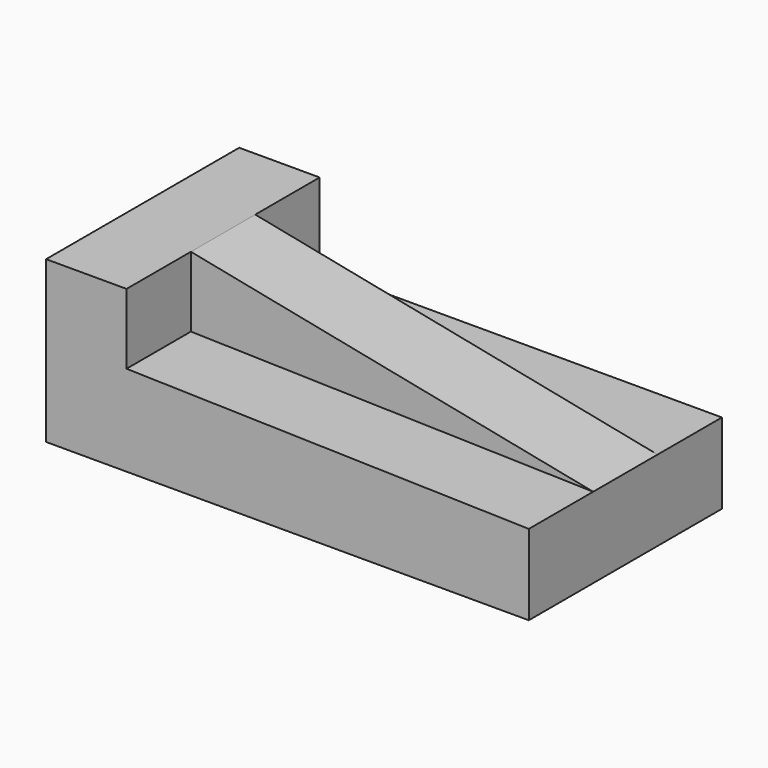
from build123d import *

# Parameters (mm, degrees)
F1_DEPTH = 76.2
F3_DEPTH = 50.8
F5_DEPTH = 25.4


with BuildPart() as f1:
    # F0 (on Front) → F1 (new body)
    with BuildSketch(Plane.XZ):
        Polygon((0, 50.8), (0, 0), (152.4, 0), (152.4, 25.4), (25.4, 25.4), (25.4, 50.8), align=None)
    extrude(amount=F1_DEPTH)

    # F2 (on face) → F3 (join)
    with BuildSketch(Plane.XZ.offset(76.2)):
        Polygon((152.4, 25.4), (25.4, 50.8), (25.4, 25.4), align=None)
    extrude(amount=-F3_DEPTH)

    # F4 (on face) → F5 (cut)
    with BuildSketch(Plane.XZ.offset(76.2)):
        Polygon((152.4, 25.4), (25.4, 50.8), (25.4, 28.610824), align=None)
    extrude(amount=-F5_DEPTH, mode=Mode.SUBTRACT)


solid = f1.part
